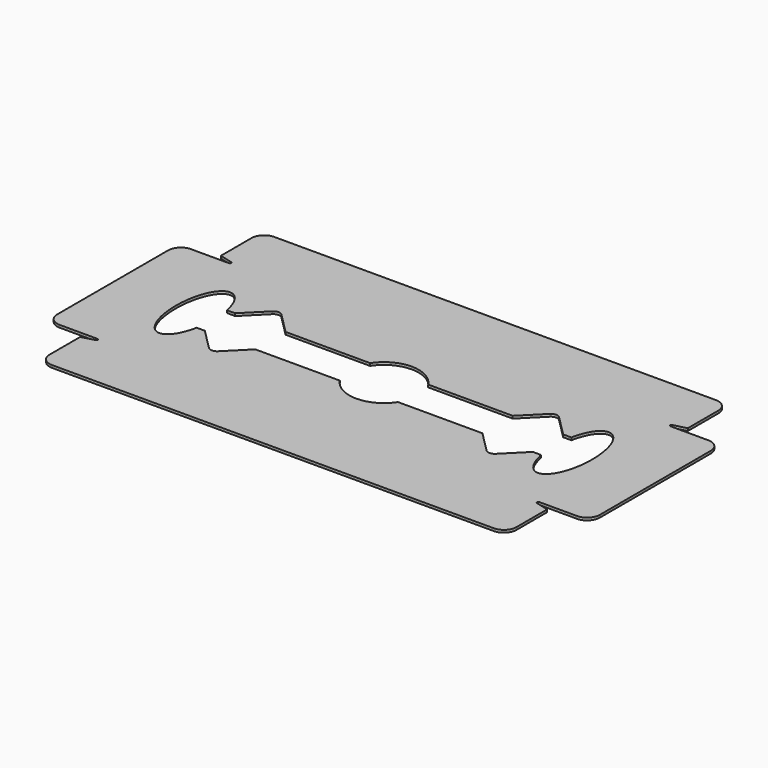
from build123d import *

# Parameters (mm, degrees)
F2_DEPTH = 0.2


with BuildPart() as f2:
    # F1 (on Top) → F2 (new body)
    with BuildSketch(Plane.XY):
        with BuildLine():
            ThreePointArc((18.5, 10), (18.2071067812, 10.7071067812), (17.5, 11))
            Line((17.5, 11), (-17.5, 11))
            ThreePointArc((-17.5, 11), (-18.2071067812, 10.7071067812), (-18.5, 10))
            Line((-18.5, 10), (-18.5, 6.9714768105))
            Line((-18.5, 6.9714768105), (-17.4741180955, 6.6965925826))
            ThreePointArc((-17.4741180955, 6.6965925826), (-17.4008555139, 6.5869473808), (-17.5, 6.5))
            Line((-17.5, 6.5), (-18.5, 6.5))
            Line((-18.5, 6.5), (-20.5, 6.5))
            ThreePointArc((-20.5, 6.5), (-21.2071067812, 6.2071067812), (-21.5, 5.5))
            Line((-21.5, 5.5), (-21.5, -5.5))
            ThreePointArc((-21.5, -5.5), (-21.2071067812, -6.2071067812), (-20.5, -6.5))
            Line((-20.5, -6.5), (-18.5, -6.5))
            Line((-18.5, -6.5), (-17.5, -6.5))
            ThreePointArc((-17.5, -6.5), (-17.4008555139, -6.5869473808), (-17.4741180955, -6.6965925826))
            Line((-17.4741180955, -6.6965925826), (-18.5, -6.9714768105))
            Line((-18.5, -6.9714768105), (-18.5, -10))
            ThreePointArc((-18.5, -10), (-18.2071067812, -10.7071067812), (-17.5, -11))
            Line((-17.5, -11), (17.5, -11))
            ThreePointArc((17.5, -11), (18.2071067812, -10.7071067812), (18.5, -10))
            Line((18.5, -10), (18.5, -6.9714768105))
            Line((18.5, -6.9714768105), (17.4741180955, -6.6965925826))
            ThreePointArc((17.4741180955, -6.6965925826), (17.4008555139, -6.5869473808), (17.5, -6.5))
            Line((17.5, -6.5), (18.5, -6.5))
            Line((18.5, -6.5), (20.5, -6.5))
            ThreePointArc((20.5, -6.5), (21.2071067812, -6.2071067812), (21.5, -5.5))
            Line((21.5, -5.5), (21.5, 5.5))
            ThreePointArc((21.5, 5.5), (21.2071067812, 6.2071067812), (20.5, 6.5))
            Line((20.5, 6.5), (18.5, 6.5))
            Line((18.5, 6.5), (17.5, 6.5))
            ThreePointArc((17.5, 6.5), (17.4008555139, 6.5869473808), (17.4741180955, 6.6965925826))
            Line((17.4741180955, 6.6965925826), (18.5, 6.9714768105))
            Line((18.5, 6.9714768105), (18.5, 10))
        make_face()
        with BuildLine():
            ThreePointArc((-2.3048861143, 1.5), (0, 2.75), (2.3048861143, 1.5))
            Line((2.3048861143, 1.5), (7.9035079029, 1.5))
            Line((7.9035079029, 1.5), (9, 1.5))
            Line((9, 1.5), (10.6464465483, 3.1464466035))
            ThreePointArc((10.6464465483, 3.1464466035), (10.9999999364, 3.2928932188), (11.3535533295, 3.1464466153))
            Line((11.3535533295, 3.1464466153), (13, 1.5))
            Line((13, 1.5), (13.6447381456, 1.5))
            add(Edge.make_bspline(
                [(13.6447381456, -1.5), (14.4541091202, -5.4813756137), (15.9329312277, -2.7406878069), (17.4117533352, 0), (15.9329312277, 2.7406878069), (14.4541091202, 5.4813756137), (13.6447381456, 1.5)],
                knots=[2.0137073709, 2.0137073709, 2.0137073709, 3.8128284439, 3.8128284439, 5.6119495169, 5.6119495169, 7.4110705899, 7.4110705899, 7.4110705899], degree=2, weights=[1, 0.6219541518, 1, 0.6219541518, 1, 0.6219541518, 1]))
            Line((13.6447381456, -1.5), (13, -1.5))
            Line((13, -1.5), (11.3535533295, -3.1464466153))
            ThreePointArc((11.3535533295, -3.1464466153), (10.9999999364, -3.2928932188), (10.6464465483, -3.1464466035))
            Line((10.6464465483, -3.1464466035), (9, -1.5))
            Line((9, -1.5), (7.9035079029, -1.5))
            Line((7.9035079029, -1.5), (2.3048861143, -1.5))
            ThreePointArc((2.3048861143, -1.5), (0, -2.75), (-2.3048861143, -1.5))
            Line((-2.3048861143, -1.5), (-7.9035079029, -1.5))
            Line((-7.9035079029, -1.5), (-9, -1.5))
            Line((-9, -1.5), (-10.6464465483, -3.1464466035))
            ThreePointArc((-10.6464465483, -3.1464466035), (-10.9999999364, -3.2928932188), (-11.3535533295, -3.1464466153))
            Line((-11.3535533295, -3.1464466153), (-13, -1.5))
            Line((-13, -1.5), (-13.6447381456, -1.5))
            add(Edge.make_bspline(
                [(-13.6447381456, 1.5), (-14.4541091202, 5.4813756137), (-15.9329312277, 2.7406878069), (-17.4117533352, 0), (-15.9329312277, -2.7406878069), (-14.4541091202, -5.4813756137), (-13.6447381456, -1.5)],
                knots=[5.1553000245, 5.1553000245, 5.1553000245, 6.9544210975, 6.9544210975, 8.7535421705, 8.7535421705, 10.5526632435, 10.5526632435, 10.5526632435], degree=2, weights=[1, 0.6219541518, 1, 0.6219541518, 1, 0.6219541518, 1]))
            Line((-13.6447381456, 1.5), (-13, 1.5))
            Line((-13, 1.5), (-11.3535533295, 3.1464466153))
            ThreePointArc((-11.3535533295, 3.1464466153), (-10.9999999364, 3.2928932188), (-10.6464465483, 3.1464466035))
            Line((-10.6464465483, 3.1464466035), (-9, 1.5))
            Line((-9, 1.5), (-7.9035079029, 1.5))
            Line((-7.9035079029, 1.5), (-2.3048861143, 1.5))
        make_face(mode=Mode.SUBTRACT)
    extrude(amount=F2_DEPTH)


solid = f2.part
